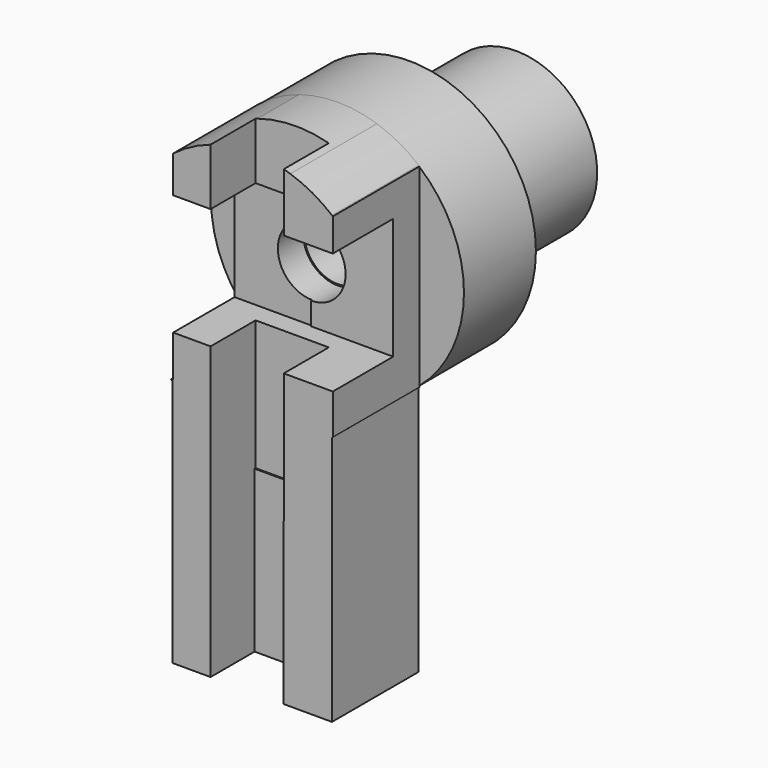
from build123d import *

# Parameters (mm, degrees)
F0_R      = 15.433167194
F0_R_2    = 8.0548322191
F1_DEPTH  = 25.4
F2_W      = 17.1370897226
F2_H      = 13.9400362968
F3_DEPTH  = 52.07
F4_W      = 17.1583444834
F4_H      = 14.7807182949
F5_DEPTH  = 100.076
F7_W      = 20.3292299993
F7_H      = 28.4609068185
F8_DEPTH  = 57.658
F9_W      = 20.3302133896
F9_H      = 28.3219206433
F10_DEPTH = 54.61
F11_W     = 19.8471819321
F11_H     = 48.8284118474
F11_W_2   = 19.9860688299
F11_H_2   = 48.6484020948
F12_DEPTH = 44.704
F13_R     = 29.6448056137
F13_R_2   = 17.9422846096
F14_DEPTH = 21.082
F15_R     = 19.0161777789
F15_R_2   = 7.7492998165
F16_DEPTH = 31.242


with BuildPart() as f1:
    # F0 (on Front) → F1 (new body)
    with BuildSketch(Plane.XZ):
        Polygon((19.0223418176, 28.2409206692), (19.0223418176, 59.6059984693), (9.2501137406, 59.6059984693), (-9.0077609013, 59.6059984693), (-18.3395408094, 59.6059984693), (-18.3395408094, 28.2409206692), (-9.0077609013, 28.2409206692), (9.2501137406, 28.2409206692), align=None)
        with Locations((0.1452074648, 43.853033334)):
            Circle(F0_R, mode=Mode.SUBTRACT)
        with BuildLine():
            Line((9.2501137406, -37.7542672334), (9.2501137406, 15.5216934006))
            ThreePointArc((9.2501137406, 15.5216934006), (0.1272952852, 14.0501270571), (-9.0077609013, 15.4437096852))
            Line((-9.0077609013, 15.4437096852), (-9.0077609013, -37.7542672334))
            Line((-9.0077609013, -37.7542672334), (9.2501137406, -37.7542672334))
        make_face()
        with Locations((0.1452074648, 43.853033334)):
            Circle(F0_R)
        with Locations((0, 43.853033334)):
            Circle(F0_R_2, mode=Mode.SUBTRACT)
        with BuildLine():
            Line((19.0223418176, -37.7542672334), (19.0223418176, 20.9100618958))
            ThreePointArc((19.0223418176, 20.9100618958), (14.3906763073, 17.7544153235), (9.2501137406, 15.5216934006))
            Line((9.2501137406, 15.5216934006), (9.2501137406, -37.7542672334))
            Line((9.2501137406, -37.7542672334), (19.0223418176, -37.7542672334))
        make_face()
        with BuildLine():
            Line((-9.0077609013, -37.7542672334), (-9.0077609013, 15.4437096852))
            ThreePointArc((-9.0077609013, 15.4437096852), (-13.8929074263, 17.4860738983), (-18.3395408094, 20.360679907))
            Line((-18.3395408094, 20.360679907), (-18.3395408094, -37.7542672334))
            Line((-18.3395408094, -37.7542672334), (-9.0077609013, -37.7542672334))
        make_face()
        with BuildLine():
            Line((-18.3395408094, 59.6059984693), (-18.3395408094, 67.345386761))
            ThreePointArc((-18.3395408094, 67.345386761), (-29.8031781298, 43.853033334), (-18.3395408094, 20.360679907))
            Line((-18.3395408094, 20.360679907), (-18.3395408094, 28.2409206692))
            Line((-18.3395408094, 28.2409206692), (-18.3395408094, 59.6059984693))
        make_face()
        with BuildLine():
            ThreePointArc((19.0223418176, 20.9100618958), (26.973650738, 31.178192408), (29.8031781298, 43.853033334))
            ThreePointArc((29.8031781298, 43.853033334), (26.973650738, 56.5278742601), (19.0223418176, 66.7960047722))
            Line((19.0223418176, 66.7960047722), (19.0223418176, 59.6059984693))
            Line((19.0223418176, 59.6059984693), (19.0223418176, 28.2409206692))
            Line((19.0223418176, 28.2409206692), (19.0223418176, 20.9100618958))
        make_face()
        with BuildLine():
            ThreePointArc((-9.0077609013, 15.4437096852), (0.1272952852, 14.0501270571), (9.2501137406, 15.5216934006))
            Line((9.2501137406, 15.5216934006), (9.2501137406, 28.2409206692))
            Line((9.2501137406, 28.2409206692), (-9.0077609013, 28.2409206692))
            Line((-9.0077609013, 28.2409206692), (-9.0077609013, 15.4437096852))
        make_face()
        with BuildLine():
            Line((9.2501137406, 59.6059984693), (9.2501137406, 72.1843732675))
            ThreePointArc((9.2501137406, 72.1843732675), (0.1272952852, 73.6559396109), (-9.0077609013, 72.2623569828))
            Line((-9.0077609013, 72.2623569828), (-9.0077609013, 59.6059984693))
            Line((-9.0077609013, 59.6059984693), (9.2501137406, 59.6059984693))
        make_face()
        with BuildLine():
            ThreePointArc((9.2501137406, 15.5216934006), (14.3906763073, 17.7544153235), (19.0223418176, 20.9100618958))
            Line((19.0223418176, 20.9100618958), (19.0223418176, 28.2409206692))
            Line((19.0223418176, 28.2409206692), (9.2501137406, 28.2409206692))
            Line((9.2501137406, 28.2409206692), (9.2501137406, 15.5216934006))
        make_face()
        with BuildLine():
            Line((19.0223418176, 59.6059984693), (19.0223418176, 66.7960047722))
            ThreePointArc((19.0223418176, 66.7960047722), (14.3906763073, 69.9516513445), (9.2501137406, 72.1843732675))
            Line((9.2501137406, 72.1843732675), (9.2501137406, 59.6059984693))
            Line((9.2501137406, 59.6059984693), (19.0223418176, 59.6059984693))
        make_face()
        with BuildLine():
            ThreePointArc((-18.3395408094, 20.360679907), (-13.8929074263, 17.4860738983), (-9.0077609013, 15.4437096852))
            Line((-9.0077609013, 15.4437096852), (-9.0077609013, 28.2409206692))
            Line((-9.0077609013, 28.2409206692), (-18.3395408094, 28.2409206692))
            Line((-18.3395408094, 28.2409206692), (-18.3395408094, 20.360679907))
        make_face()
        with BuildLine():
            Line((-9.0077609013, 59.6059984693), (-9.0077609013, 72.2623569828))
            ThreePointArc((-9.0077609013, 72.2623569828), (-13.8929074263, 70.2199927697), (-18.3395408094, 67.345386761))
            Line((-18.3395408094, 67.345386761), (-18.3395408094, 59.6059984693))
            Line((-18.3395408094, 59.6059984693), (-9.0077609013, 59.6059984693))
        make_face()
    extrude(amount=F1_DEPTH)

    # F2 (on Top) → F3 (cut)
    with BuildSketch(Plane.XY):
        with Locations((-0.8700220022, -19.4579679519)):
            Rectangle(F2_W, F2_H)
    extrude(amount=-F3_DEPTH, mode=Mode.SUBTRACT)

    # F4 (on Top) → F5 (cut)
    with BuildSketch(Plane.XY):
        with Locations((-0.8593946218, -19.5878909072)):
            Rectangle(F4_W, F4_H)
    extrude(amount=F5_DEPTH, mode=Mode.SUBTRACT)

    # F7 (on Right) → F8 (cut)
    with BuildSketch(Plane.YZ):
        with Locations((-17.8606694099, 44.7242846712)):
            Rectangle(F7_W, F7_H)
    extrude(amount=F8_DEPTH, mode=Mode.SUBTRACT)

    # F9 (on Right) → F10 (cut)
    with BuildSketch(Plane.YZ):
        with Locations((-17.5707505118, 44.6547915836)):
            Rectangle(F9_W, F9_H)
    extrude(amount=-F10_DEPTH, mode=Mode.SUBTRACT)

    # F11 (on Front) → F12 (cut)
    with BuildSketch(Plane.XZ):
        with Locations((29.1418134246, 44.8984373361)):
            Rectangle(F11_W, F11_H)
        with Locations((-28.1968573108, 44.9884422123)):
            Rectangle(F11_W_2, F11_H_2)
    extrude(amount=F12_DEPTH, mode=Mode.SUBTRACT)

    # F13 (on face) → F14 (join)
    with BuildSketch(Plane.XZ):
        with Locations((0, 43.9448542893)):
            Circle(F13_R)
        with Locations((0, 43.9448542893)):
            Circle(F13_R_2, mode=Mode.SUBTRACT)
        with Locations((0, 43.9448542893)):
            Circle(F13_R_2)
        with BuildLine():
            ThreePointArc((-7.4182733413, 41.6264460763), (-1.1726275703, 51.6280008186), (7.772116572, 43.9448542893))
            ThreePointArc((7.772116572, 43.9448542893), (7.6831465293, 42.772226719), (7.4182733413, 41.6264460763))
            ThreePointArc((7.4182733413, 41.6264460763), (0, 36.1078109239), (-7.4182733413, 41.6264460763))
        make_face(mode=Mode.SUBTRACT)
    extrude(amount=-F14_DEPTH)

    # F15 (on face) → F16 (join)
    with BuildSketch(Plane(origin=(0, 21.082, 0), x_dir=(-1, 0, 0), z_dir=(0, 1, 0))):
        with Locations((0, 43.9448542893)):
            Circle(F15_R)
        with Locations((0, 43.9448542893)):
            Circle(F15_R_2, mode=Mode.SUBTRACT)
    extrude(amount=F16_DEPTH)


solid = f1.part
